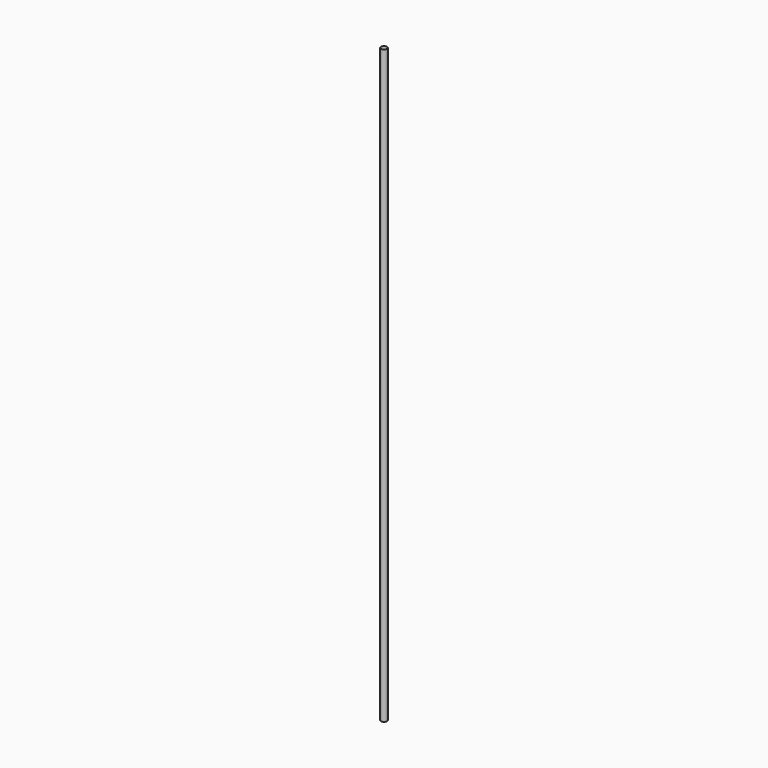
from build123d import *

# Parameters (mm, degrees)
SKETCH_R  = 2.5
PAD_DEPTH = 501.65


with BuildPart() as part:
    # Sketch → Pad (new body)
    with BuildSketch(Plane.XY):
        Circle(SKETCH_R)
    extrude(amount=PAD_DEPTH)


solid = part.part
